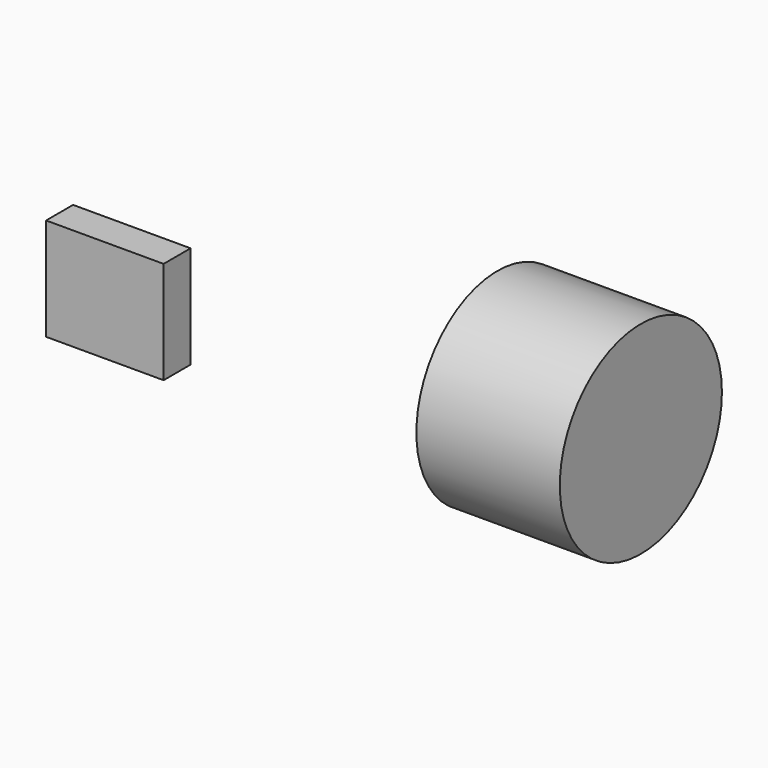
from build123d import *

# Parameters (mm, degrees)
F0_R     = 76.248059
F1_DEPTH = 107.95
F3_DEPTH = 25.4


with BuildPart() as f1:
    # F0 (on Right) → F1 (new body)
    with BuildSketch(Plane.YZ):
        Circle(F0_R)
    extrude(amount=F1_DEPTH)


with BuildPart() as f3:
    # F2 (on Front) → F3 (new body)
    with BuildSketch(Plane.XZ):
        Polygon((-230.927557, 16.090354), (-319.367528, 16.090354), (-319.367528, -61.001405), (-230.927557, -61.001405), (-230.927557, -8.195519), align=None)
    extrude(amount=F3_DEPTH)


solid = Compound([f1.part, f3.part])
